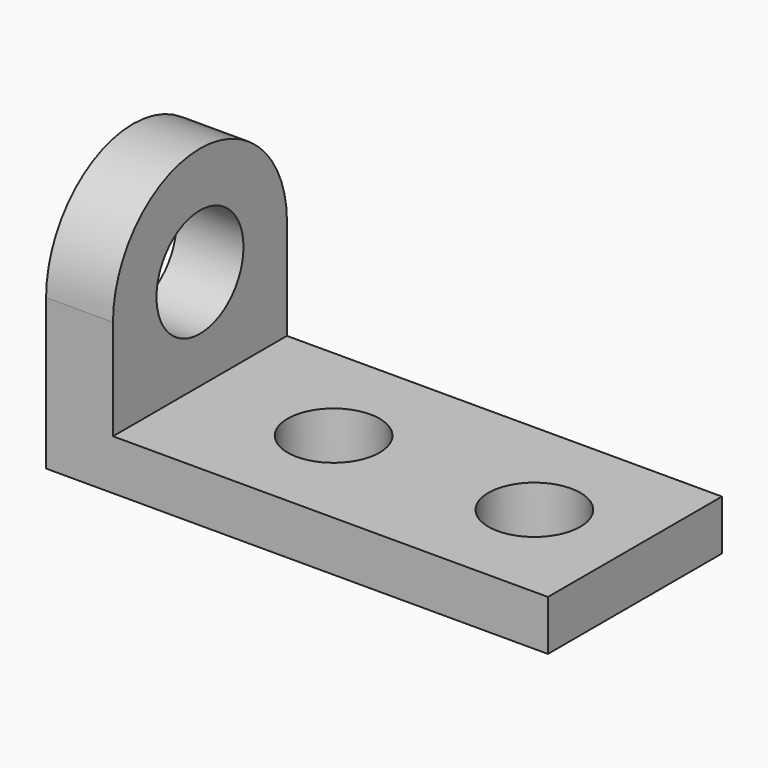
from build123d import *

# Parameters (mm, degrees)
F0_R     = 20.6375
F1_DEPTH = 25.4
F0_W     = 82.55
F0_H     = 19.05
F2_DEPTH = 190.5
F3_R     = 17.4625
F4_DEPTH = 25.4


with BuildPart() as f1:
    # F0 (on Right) → F1 (new body)
    with BuildSketch(Plane.YZ):
        with BuildLine():
            Line((0, 57.15), (0, 19.05))
            Line((0, 19.05), (82.55, 19.05))
            Line((82.55, 19.05), (82.55, 57.15))
            ThreePointArc((82.55, 57.15), (41.275, 98.425), (0, 57.15))
        make_face()
        with Locations((41.275, 57.15)):
            Circle(F0_R, mode=Mode.SUBTRACT)
    extrude(amount=F1_DEPTH)

    # F0 (on Right) → F2 (join)
    with BuildSketch(Plane.YZ):
        with Locations((41.275, 9.525)):
            Rectangle(F0_W, F0_H)
    extrude(amount=F2_DEPTH)

    # F3 (on face) → F4 (cut)
    with BuildSketch(Plane.XY.offset(19.05)):
        with Locations((76.2, 41.179956)):
            Circle(F3_R)
        with Locations((152.4, 41.179956)):
            Circle(F3_R)
    extrude(amount=-F4_DEPTH, mode=Mode.SUBTRACT)


solid = f1.part
